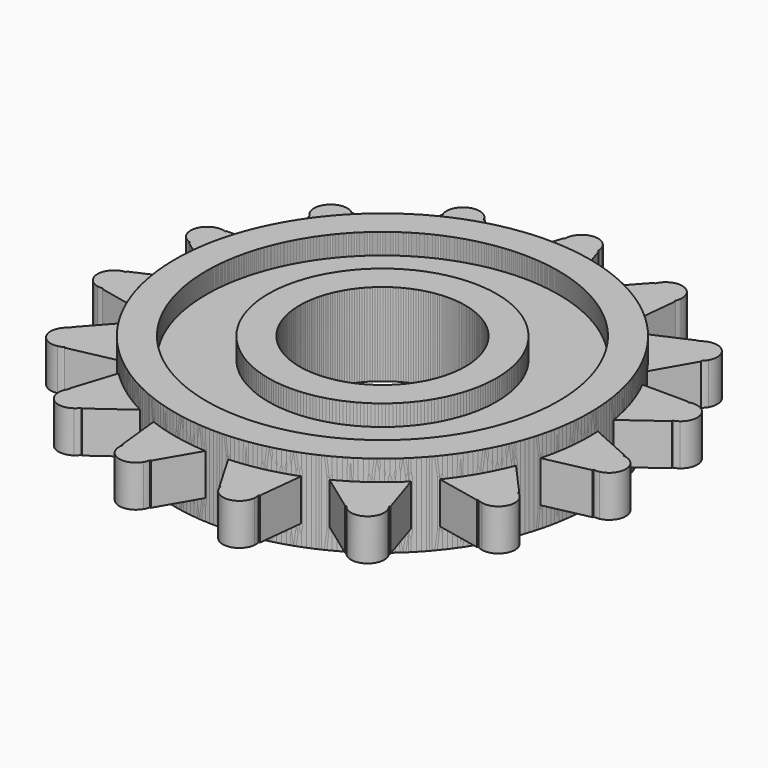
from build123d import *

# Parameters (mm, degrees)
F0_R     = 63.5
F0_R_2   = 25.4
F1_DEPTH = 25.4
F2_R     = 53.975
F2_R_2   = 34.925
F3_DEPTH = 6.35
F4_R     = 53.975
F4_R_2   = 34.925
F5_DEPTH = 6.35
F8_DEPTH = 12.7
F9_COUNT = 15


with BuildPart() as f1:
    # F0 (on Top) → F1 (new body)
    with BuildSketch(Plane.XY):
        Circle(F0_R)
        Circle(F0_R_2, mode=Mode.SUBTRACT)
    extrude(amount=F1_DEPTH)

    # F2 (on face) → F3 (cut)
    with BuildSketch(Plane.XY.offset(25.4)):
        Circle(F2_R)
        Circle(F2_R_2, mode=Mode.SUBTRACT)
    extrude(amount=-F3_DEPTH, mode=Mode.SUBTRACT)

    # F4 (on face) → F5 (cut)
    with BuildSketch(Plane(origin=(0, 0, 0), x_dir=(1, 0, 0), z_dir=(0, 0, -1))):
        Circle(F4_R)
        Circle(F4_R_2, mode=Mode.SUBTRACT)
        Circle(F4_R)
        Circle(F4_R_2, mode=Mode.SUBTRACT)
    extrude(amount=-F5_DEPTH, mode=Mode.SUBTRACT)

    # F6 (on face) → F8 (join)
    with BuildSketch(Plane.XY.offset(19.05)):
        with BuildLine():
            Line((9.751918, 62.746714), (5.408489, 76.007817))
            ThreePointArc((5.408489, 76.007817), (5.242845, 76.019422), (5.077177, 76.030667))
            ThreePointArc((5.077177, 76.030667), (5.029164, 76.916877), (4.827648, 77.781207))
            ThreePointArc((4.827648, 77.781207), (0, 81.28), (-4.827648, 77.781207))
            ThreePointArc((-4.827648, 77.781207), (-5.029164, 76.916877), (-5.077177, 76.030667))
            ThreePointArc((-5.077177, 76.030667), (-5.242845, 76.019422), (-5.408489, 76.007817))
            Line((-5.408489, 76.007817), (-9.751918, 62.746714))
            ThreePointArc((-9.751918, 62.746714), (0, 63.5), (9.751918, 62.746714))
        make_face()
    extrude(amount=-F8_DEPTH)


with BuildPart() as f9_1:
    # F9: instance of F1
    add(f1.part.rotate(Axis((0, 0, 25.4), (0, 0, 1)), 1 * 360 / F9_COUNT))


with BuildPart() as f9_2:
    # F9: instance of F1
    add(f1.part.rotate(Axis((0, 0, 25.4), (0, 0, 1)), 2 * 360 / F9_COUNT))


with BuildPart() as f9_3:
    # F9: instance of F1
    add(f1.part.rotate(Axis((0, 0, 25.4), (0, 0, 1)), 3 * 360 / F9_COUNT))


with BuildPart() as f9_4:
    # F9: instance of F1
    add(f1.part.rotate(Axis((0, 0, 25.4), (0, 0, 1)), 4 * 360 / F9_COUNT))


with BuildPart() as f9_5:
    # F9: instance of F1
    add(f1.part.rotate(Axis((0, 0, 25.4), (0, 0, 1)), 5 * 360 / F9_COUNT))


with BuildPart() as f9_6:
    # F9: instance of F1
    add(f1.part.rotate(Axis((0, 0, 25.4), (0, 0, 1)), 6 * 360 / F9_COUNT))


with BuildPart() as f9_7:
    # F9: instance of F1
    add(f1.part.rotate(Axis((0, 0, 25.4), (0, 0, 1)), 7 * 360 / F9_COUNT))


with BuildPart() as f9_8:
    # F9: instance of F1
    add(f1.part.rotate(Axis((0, 0, 25.4), (0, 0, 1)), 8 * 360 / F9_COUNT))


with BuildPart() as f9_9:
    # F9: instance of F1
    add(f1.part.rotate(Axis((0, 0, 25.4), (0, 0, 1)), 9 * 360 / F9_COUNT))


with BuildPart() as f9_10:
    # F9: instance of F1
    add(f1.part.rotate(Axis((0, 0, 25.4), (0, 0, 1)), 10 * 360 / F9_COUNT))


with BuildPart() as f9_11:
    # F9: instance of F1
    add(f1.part.rotate(Axis((0, 0, 25.4), (0, 0, 1)), 11 * 360 / F9_COUNT))


with BuildPart() as f9_12:
    # F9: instance of F1
    add(f1.part.rotate(Axis((0, 0, 25.4), (0, 0, 1)), 12 * 360 / F9_COUNT))


with BuildPart() as f9_13:
    # F9: instance of F1
    add(f1.part.rotate(Axis((0, 0, 25.4), (0, 0, 1)), 13 * 360 / F9_COUNT))


with BuildPart() as f9_14:
    # F9: instance of F1
    add(f1.part.rotate(Axis((0, 0, 25.4), (0, 0, 1)), 14 * 360 / F9_COUNT))


solid = Compound([f1.part, f9_1.part, f9_2.part, f9_3.part, f9_4.part, f9_5.part, f9_6.part, f9_7.part, f9_8.part, f9_9.part, f9_10.part, f9_11.part, f9_12.part, f9_13.part, f9_14.part])
